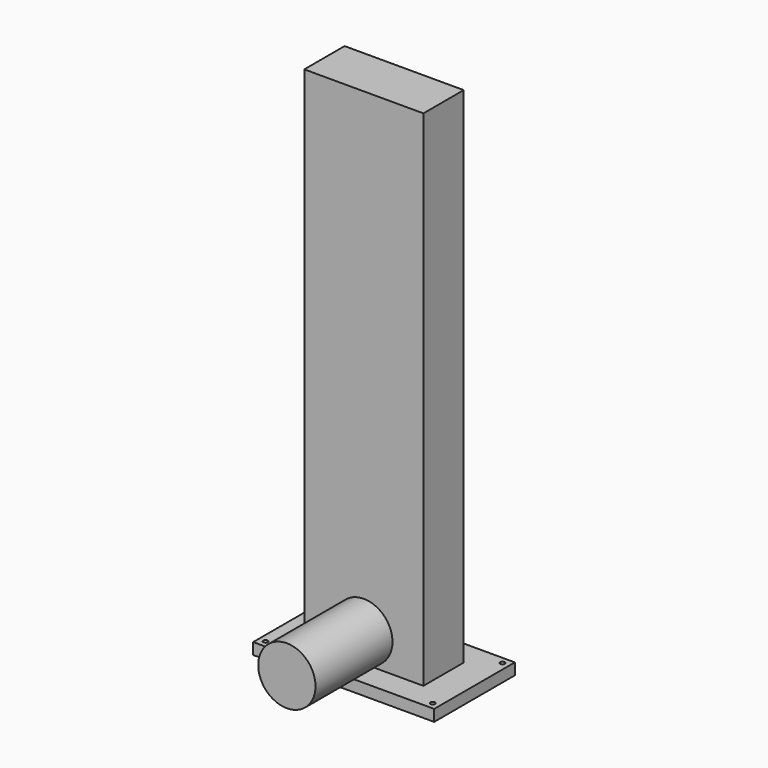
from build123d import *

# Parameters (mm, degrees)
F0_W     = 200.66
F0_H     = 111.76
F0_R     = 2.54
F1_DEPTH = 12.7
F2_W     = 132.08
F2_H     = 55.88
F3_DEPTH = 558.8
F4_R     = 31.75
F5_DEPTH = 106.68


with BuildPart() as f1:
    # F0 (on Top) → F1 (new body)
    with BuildSketch(Plane.XY):
        Rectangle(F0_W, F0_H)
        with Locations((-92.71, -48.26)):
            Circle(F0_R, mode=Mode.SUBTRACT)
        with Locations((92.71, -48.26)):
            Circle(F0_R, mode=Mode.SUBTRACT)
        with Locations((-92.71, 48.26)):
            Circle(F0_R, mode=Mode.SUBTRACT)
        with Locations((92.71, 48.26)):
            Circle(F0_R, mode=Mode.SUBTRACT)
    extrude(amount=F1_DEPTH)

    # F2 (on face) → F3 (join)
    with BuildSketch(Plane.XY.offset(12.7)):
        Rectangle(F2_W, F2_H)
    extrude(amount=F3_DEPTH)


with BuildPart() as f5:
    # F4 (on face) → F5 (new body)
    with BuildSketch(Plane.XZ.offset(27.94)):
        with Locations((0, 44.45)):
            Circle(F4_R)
    extrude(amount=F5_DEPTH)


solid = Compound([f1.part, f5.part])
